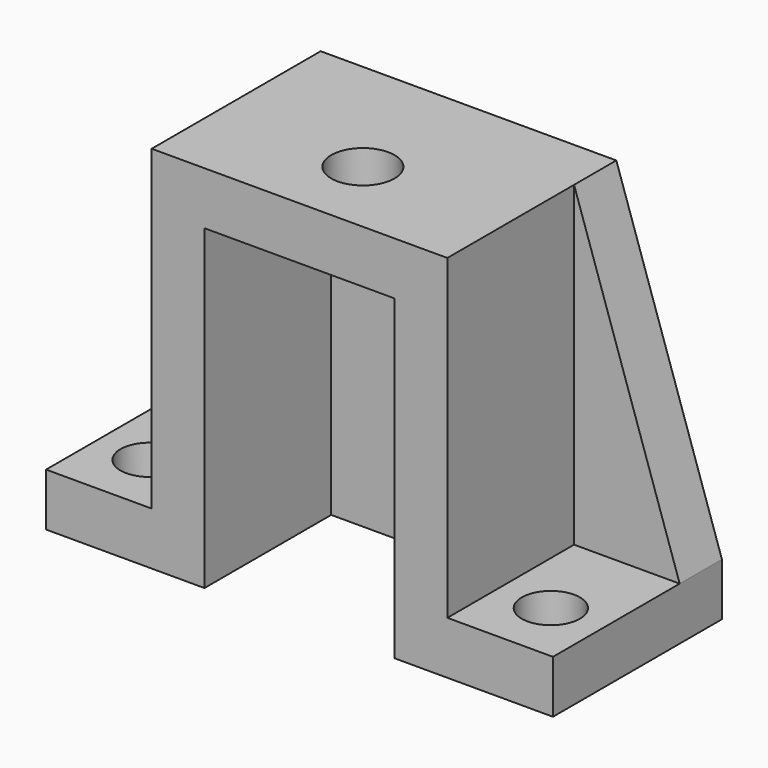
from build123d import *

# Parameters (mm, degrees)
F1_DEPTH = 40
F0_W     = 36
F0_H     = 60
F2_DEPTH = 10
F3_R     = 5.5
F3_R_2   = 6
F4_DEPTH = 75


with BuildPart() as f1:
    # F0 (on Front) → F1 (new body)
    with BuildSketch(Plane.XZ):
        Polygon((-48, -25), (-48, -35), (-18, -35), (-18, 25), (18, 25), (18, -35), (48, -35), (48, -25), (28, -25), (28, 35), (-28, 35), (-28, -25), align=None)
    extrude(amount=F1_DEPTH)

    # F0 (on Front) → F2 (join)
    with BuildSketch(Plane.XZ):
        Polygon((-28, 35), (-48, -25), (-28, -25), align=None)
        Polygon((48, -25), (28, 35), (28, -25), align=None)
        with Locations((0, -5)):
            Rectangle(F0_W, F0_H)
    extrude(amount=F2_DEPTH)

    # F3 (on face) → F4 (cut)
    with BuildSketch(Plane.XY.offset(35)):
        with Locations((38, -28)):
            Circle(F3_R)
        with Locations((0, -25)):
            Circle(F3_R_2)
        with Locations((-38, -28)):
            Circle(F3_R)
    extrude(amount=-F4_DEPTH, mode=Mode.SUBTRACT)


solid = f1.part
